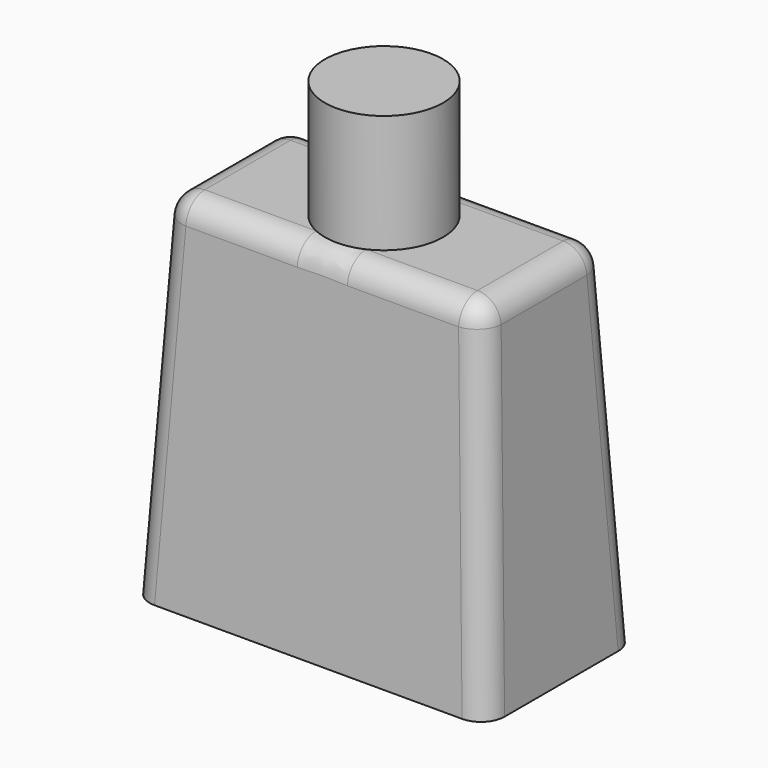
from build123d import *

# Parameters (mm, degrees)
F0_W     = 15
F0_H     = 8
F1_DEPTH = 15
F1_TAPER = 3
F2_R     = 2.5
F3_DEPTH = 5
F4_R     = 1


with BuildPart() as f1:
    # F0 (on Top) → F1 (new body)
    with BuildSketch(Plane.XY):
        Rectangle(F0_W, F0_H)
    extrude(amount=F1_DEPTH, taper=F1_TAPER)

    # F2 (on face) → F3 (join)
    with BuildSketch(Plane.XY.offset(15)):
        Circle(F2_R)
    extrude(amount=F3_DEPTH)

    # F4
    f4_edges = [f1.edges().sort_by_distance(p)[0] for p in [
        (-7.106942, -3.606942, 7.5),
        (7.106942, -3.606942, 7.5),
        (7.106942, 3.606942, 7.5),
        (6.713883, 0, 15),
        (0, -3.213883, 15),
        (-6.713883, 0, 15),
        (0, 3.213883, 15),
        (-7.106942, 3.606942, 7.5),
    ]]
    fillet(f4_edges, radius=F4_R)


solid = f1.part
